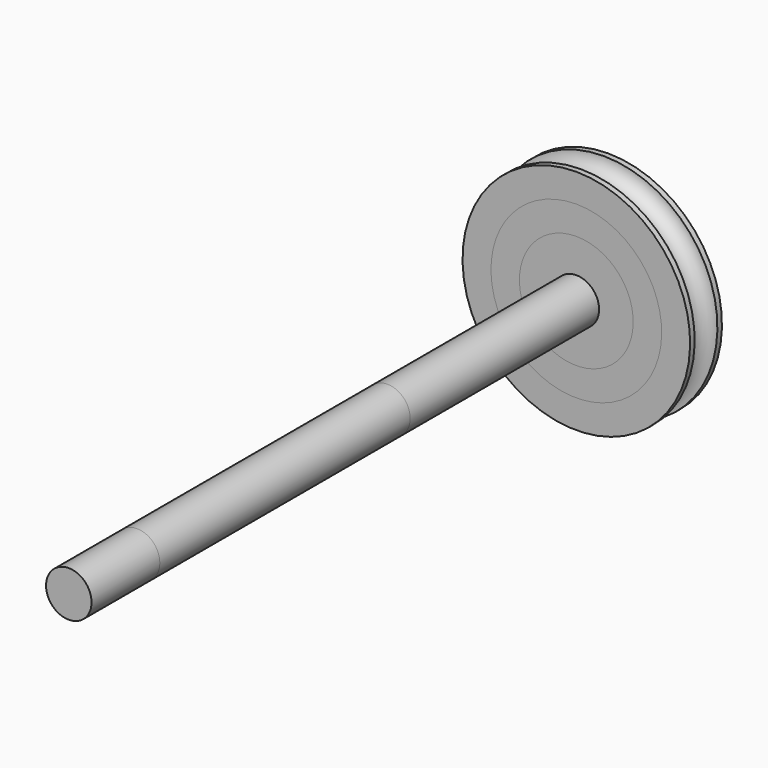
from build123d import *

# Parameters (mm, degrees)
F6_R     = 4
F7_DEPTH = 45
F8_DEPTH = 55
F9_DEPTH = 15


with BuildPart() as f1:
    # F0 (on Right) → F1 (revolve)
    with BuildSketch(Plane.YZ):
        with BuildLine():
            Line((-2.5, 20), (-3.5, 20))
            Line((-3.5, 20), (-3.5, 4))
            Line((-3.5, 4), (3.5, 4))
            Line((3.5, 4), (3.5, 20))
            Line((3.5, 20), (2.5, 20))
            ThreePointArc((2.5, 20), (0, 17.5), (-2.5, 20))
        make_face()
    revolve(axis=Axis((0, 0, 0), (0, 1, 0)))


with BuildPart() as f3:
    # F2 (on Right) → F3 (revolve)
    with BuildSketch(Plane.YZ):
        with BuildLine():
            Line((-2.5, 15), (-3.5, 15))
            Line((-3.5, 15), (-3.5, 4))
            Line((-3.5, 4), (3.5, 4))
            Line((3.5, 4), (3.5, 15))
            Line((3.5, 15), (2.5, 15))
            ThreePointArc((2.5, 15), (0, 12.5), (-2.5, 15))
        make_face()
    revolve(axis=Axis((0, 0, 0), (0, 1, 0)))


with BuildPart() as f5:
    # F4 (on Right) → F5 (revolve)
    with BuildSketch(Plane.YZ):
        with BuildLine():
            Line((-2.5, 10), (-3.5, 10))
            Line((-3.5, 10), (-3.5, 4))
            Line((-3.5, 4), (3.5, 4))
            Line((3.5, 4), (3.5, 10))
            Line((3.5, 10), (2.5, 10))
            ThreePointArc((2.5, 10), (0, 7.5), (-2.5, 10))
        make_face()
    revolve(axis=Axis((0, 0, 0), (0, 1, 0)))


with BuildPart() as f7:
    # F6 (on Front) → F7 (new body)
    with BuildSketch(Plane.XZ):
        Circle(F6_R)
    extrude(amount=F7_DEPTH)


with BuildPart() as f8:
    # F8 (new): a face of the model
    f8_faces = [f7.part.faces().sort_by_distance(p)[0] for p in [
        (0, -45, 0),
    ]]
    extrude(f8_faces, amount=F8_DEPTH)


with BuildPart() as f9:
    # F9 (new): a face of the model
    f9_faces = [f8.part.faces().sort_by_distance(p)[0] for p in [
        (0, -100, 0),
    ]]
    extrude(f9_faces, amount=F9_DEPTH)


solid = Compound([f1.part, f3.part, f5.part, f7.part, f8.part, f9.part])
